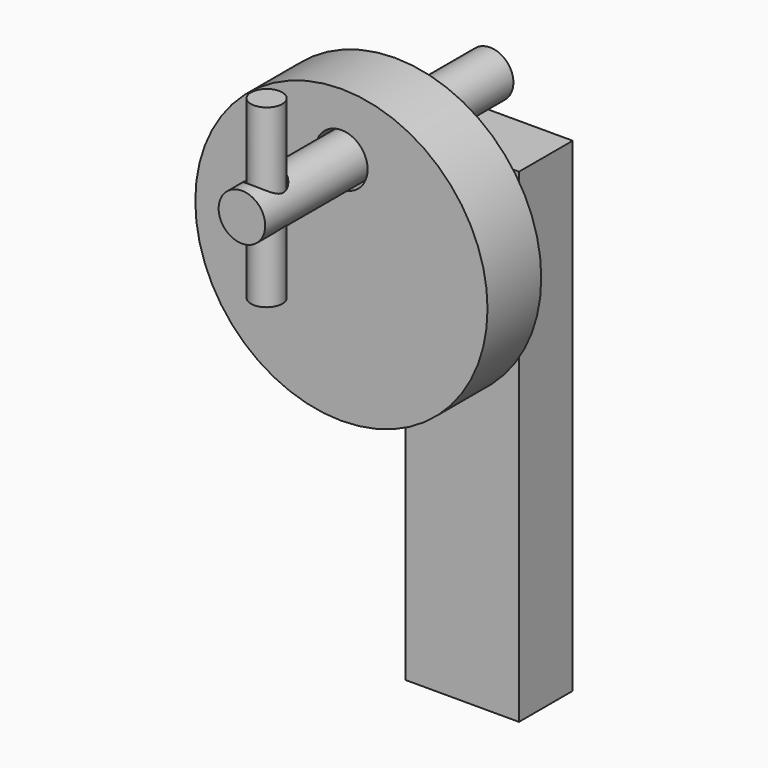
from build123d import *

# Parameters (mm, degrees)
F0_R      = 55.26233
F1_DEPTH  = 25.4
F2_R      = 9.901823
F3_DEPTH  = 116.448866
F4_R      = 8.811033
F5_DEPTH  = 47.02949
F5_FACE_R = 8.811033
F6_DEPTH  = 70.296958
F8_R      = 6.676782
F9_DEPTH  = 74.20806
F10_R     = 5.929413
F11_DEPTH = 66.520611
F13_W     = 42.985498
F13_H     = 183.192238
F14_DEPTH = 25.4


with BuildPart() as f1:
    # F0 (on Front) → F1 (new body)
    with BuildSketch(Plane.XZ):
        Circle(F0_R)
    extrude(amount=F1_DEPTH)

    # F2 (on face) → F3 (cut)
    with BuildSketch(Plane.XZ.offset(25.4)):
        with Locations((0, 31.674445)):
            Circle(F2_R)
    extrude(amount=-F3_DEPTH, mode=Mode.SUBTRACT)


with BuildPart() as f5:
    # F4 (on face) → F5 (new body)
    with BuildSketch(Plane.XZ.offset(25.4)):
        with Locations((0, 31.674445)):
            Circle(F4_R)
    extrude(amount=F5_DEPTH)

    # F5_face (on face) → F6 (join)
    with BuildSketch(Plane(origin=(0, -25.4, 31.674445), x_dir=(1, 0, 0), z_dir=(0, 1, 0))):
        Circle(F5_FACE_R)
    extrude(amount=F6_DEPTH)

    # F8 (on Top) → F9 (cut)
    with BuildSketch(Plane.XY):
        with Locations((0, -61.173689)):
            Circle(F8_R)
    extrude(amount=F9_DEPTH, mode=Mode.SUBTRACT)


with BuildPart() as f11:
    # F10 (on Top) → F11 (new body)
    with BuildSketch(Plane.XY):
        with Locations((0, -60.739782)):
            Circle(F10_R)
    extrude(amount=F11_DEPTH)


with BuildPart() as f14:
    # F13 (on plane+point) → F14 (new body)
    with BuildSketch(Plane.XZ.offset(-53.819593)):
        with Locations((2.609998, -77.955134)):
            Rectangle(F13_W, F13_H)
    extrude(amount=F14_DEPTH)


solid = Compound([f1.part, f5.part, f11.part, f14.part])
